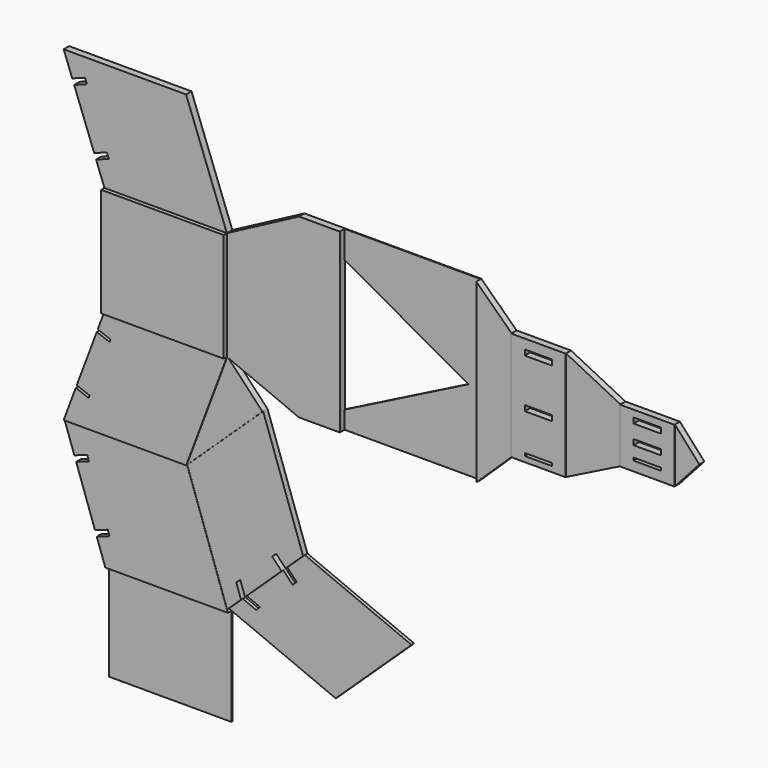
from build123d import *

# Parameters (mm, degrees)
F1_DEPTH  = 25
F2_DEPTH  = 40
F3_DEPTH  = 25
F4_DEPTH  = 21
F5_DEPTH  = 4
F6_DEPTH  = 25
F7_DEPTH  = 3
F8_DEPTH  = 23
F0_W      = 200
F0_H      = 400
F0_W_2    = 100
F0_H_2    = 10
F0_H_3    = 20
F9_DEPTH  = 25
F10_DEPTH = 23
F0_H_4    = 200
F11_DEPTH = 25
F12_DEPTH = 23
F13_DEPTH = 23
F14_DEPTH = 20
F15_DEPTH = 12


with BuildPart() as f1:
    # F0 (on Front) → F1 (new body)
    with BuildSketch(Plane.XZ):
        Polygon((-150.467881, 910), (-600.467881, 910), (-568.866771, 825.730374), (-522.050312, 843.286546), (-515.027843, 824.559963), (-561.844302, 807.00379), (-488.108379, 610.374663), (-441.29192, 627.930835), (-434.269452, 609.204252), (-481.085911, 591.64808), (-450.467881, 510), (-0.467881, 510), align=None)
    extrude(amount=F1_DEPTH)

    # F0 (on Front) → F2 (join)
    with BuildSketch(Plane.XZ):
        Polygon((0, 110), (-0.467881, 510), (-450.467881, 510), (-450.467881, 110), align=None)
    extrude(amount=F2_DEPTH)

    # F0 (on Front) → F3 (join)
    with BuildSketch(Plane.XZ):
        Polygon((-150, -290), (0, 110), (-450.467881, 110), (-475.046522, 44.456958), (-428.230063, 26.900785), (-431.741297, 17.537494), (-478.557756, 35.093666), (-552.293679, -161.535461), (-505.47722, -179.091634), (-508.988454, -188.454925), (-555.804913, -170.898753), (-600.467881, -290), align=None)
    extrude(amount=F3_DEPTH)

    # F0 (on Front) → F4 (join)
    with BuildSketch(Plane.XZ):
        Polygon((-3.293722, -710.557998), (-150, -290), (-600.467881, -290), (-564.236943, -393.86202), (-517.026934, -377.393412), (-510.439491, -396.277416), (-557.6495, -412.746024), (-488.481348, -611.028062), (-441.271338, -594.559454), (-434.683895, -613.443458), (-481.893904, -629.912065), (-450.467881, -720), (0, -720), align=None)
    extrude(amount=F4_DEPTH)

    # F0 (on Front) → F5 (join)
    with BuildSketch(Plane.XZ):
        Polygon((-0.467881, -1080), (0, -720), (-450.467881, -720), (-450.467881, -1080), align=None)
    extrude(amount=F5_DEPTH)

    # F0 (on Front) → F6 (join)
    with BuildSketch(Plane.XZ):
        Polygon((264.532119, 650), (-0.467881, 510), (0, 110), (264.532119, 0), (414.532119, 0), (414.532119, 65), (414.532119, 550), (414.532119, 650), align=None)
    extrude(amount=F6_DEPTH)

    # F0 (on Front) → F7 (join)
    with BuildSketch(Plane.XZ):
        Polygon((914.532119, 650), (414.532119, 650), (414.532119, 550), (869.532119, 295), (414.532119, 65), (414.532119, 0), (914.532119, 0), align=None)
    extrude(amount=F7_DEPTH)

    # F0 (on Front) → F8 (join)
    with BuildSketch(Plane.XZ):
        Polygon((1044.532119, 525), (914.532119, 650), (914.532119, 0), (1044.532119, 125), align=None)
    extrude(amount=F8_DEPTH)

    # F0 (on Front) → F9 (join)
    with BuildSketch(Plane.XZ):
        with Locations((1144.532119, 325)):
            Rectangle(F0_W, F0_H)
        with Locations((1144.532119, 150)):
            Rectangle(F0_W_2, F0_H_2, mode=Mode.SUBTRACT)
        with Locations((1144.532119, 300)):
            Rectangle(F0_W_2, F0_H_3, mode=Mode.SUBTRACT)
        with Locations((1144.532119, 480)):
            Rectangle(F0_W_2, F0_H_3, mode=Mode.SUBTRACT)
    extrude(amount=F9_DEPTH)

    # F0 (on Front) → F10 (join)
    with BuildSketch(Plane.XZ):
        Polygon((1444.532119, 425), (1244.532119, 525), (1244.532119, 125), (1444.532119, 225), align=None)
    extrude(amount=F10_DEPTH)

    # F0 (on Front) → F11 (join)
    with BuildSketch(Plane.XZ):
        with Locations((1544.532119, 325)):
            Rectangle(F0_W, F0_H_4)
        with Locations((1544.532119, 265)):
            Rectangle(F0_W_2, F0_H_2, mode=Mode.SUBTRACT)
        with Locations((1544.532119, 320)):
            Rectangle(F0_W_2, F0_H_3, mode=Mode.SUBTRACT)
        with Locations((1544.532119, 390)):
            Rectangle(F0_W_2, F0_H_3, mode=Mode.SUBTRACT)
    extrude(amount=F11_DEPTH)

    # F0 (on Front) → F12 (join)
    with BuildSketch(Plane.XZ):
        Polygon((1734.532119, 325), (1644.532119, 425), (1644.532119, 225), align=None)
    extrude(amount=F12_DEPTH)

    # F0 (on Front) → F13 (join)
    with BuildSketch(Plane.XZ):
        Polygon((128.904064, -26.375063), (0, 110), (-150, -290), align=None)
    extrude(amount=F13_DEPTH)

    # F0 (on Front) → F14 (join)
    with BuildSketch(Plane.XZ):
        Polygon((128.904064, -26.375063), (-150, -290), (-3.293722, -710.557998), (47.57757, -662.473575), (30.135709, -612.473575), (44.670364, -598.735169), (62.112224, -648.735169), (196.55778, -521.654908), (162.211763, -485.318272), (176.746418, -471.579865), (211.092434, -507.916502), (275.610342, -446.933061), align=None)
    extrude(amount=F14_DEPTH)

    # F0 (on Front) → F15 (join)
    with BuildSketch(Plane.XZ):
        Polygon((47.57757, -662.473575), (-3.293722, -710.557998), (389.074081, -873.875197), (667.978145, -610.250259), (275.610342, -446.933061), (211.092434, -507.916502), (245.438451, -544.253138), (230.903796, -557.991545), (196.55778, -521.654908), (62.112224, -648.735169), (111.051329, -668.96343), (96.516674, -682.701836), align=None)
    extrude(amount=F15_DEPTH)


solid = f1.part
